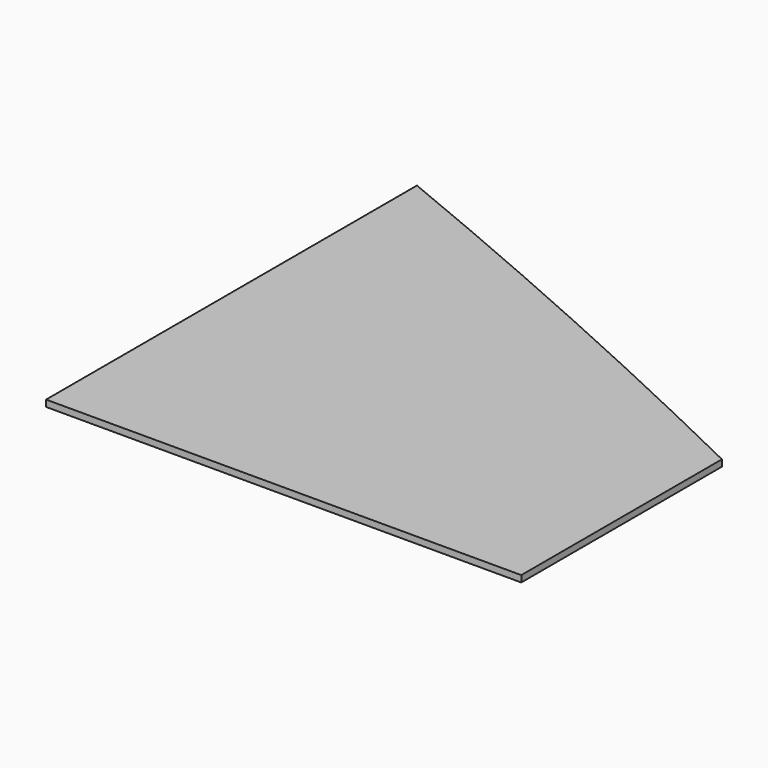
from build123d import *

# Parameters (mm, degrees)
F1_DEPTH = 25.4


with BuildPart() as f1:
    # F0 (on Top) → F1 (new body)
    with BuildSketch(Plane.XY):
        with BuildLine():
            Line((-953.393631, 2127.545803), (-953.393631, 318.557803))
            Line((-953.393631, 318.557803), (-26.293631, 318.557803))
            Line((-26.293631, 318.557803), (-26.293631, 1730.289803))
            ThreePointArc((-26.293631, 1730.289803), (-488.257323, 1932.619864), (-953.393631, 2127.545803))
        make_face()
        with BuildLine():
            Line((-26.293631, 1730.289803), (-26.293631, 318.557803))
            Line((-26.293631, 318.557803), (900.806369, 318.557803))
            Line((900.806369, 318.557803), (900.806369, 1297.219803))
            ThreePointArc((900.806369, 1297.219803), (439.010784, 1517.510589), (-26.293631, 1730.289803))
        make_face()
    extrude(amount=F1_DEPTH)


solid = f1.part
